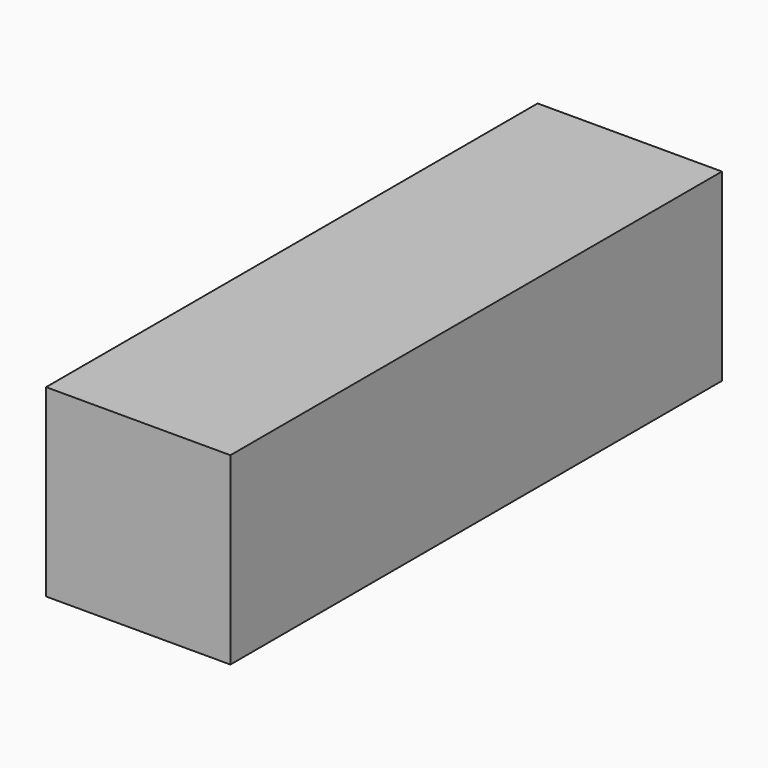
from build123d import *

# Parameters (mm, degrees)
F0_W     = 76.2
F0_H     = 76.2
F1_DEPTH = 254
F2_R     = 12.7
F3_DEPTH = 25.4


with BuildPart() as f1:
    # F0 (on Front) → F1 (new body)
    with BuildSketch(Plane.XZ):
        with Locations((38.1, 38.1)):
            Rectangle(F0_W, F0_H)
    extrude(amount=F1_DEPTH)

    # F2 (on face) → F3 (join)
    with BuildSketch(Plane.XZ.offset(254)):
        with Locations((38.1, 38.1)):
            Circle(F2_R)
    extrude(amount=-F3_DEPTH)


solid = f1.part
